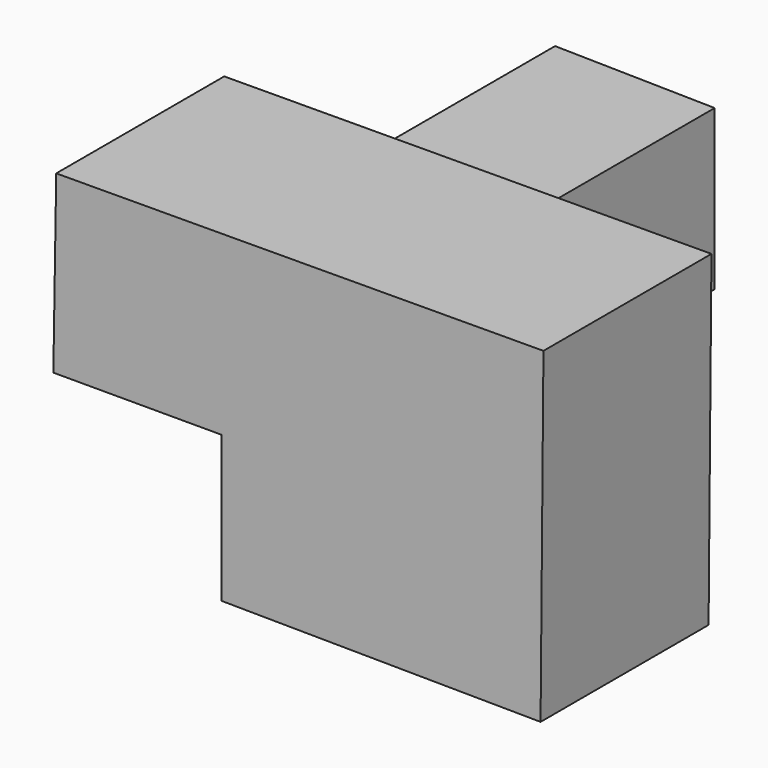
from build123d import *

# Parameters (mm, degrees)
F1_DEPTH = 25
F3_DEPTH = 25


with BuildPart() as f1:
    # F0 (on Front) → F1 (new body)
    with BuildSketch(Plane.XZ):
        Polygon((0.343599, 29.74103), (-57.655812, 29.479581), (-57.998525, 8.482378), (-37.998525, 8.482378), (-37.998525, -8.922668), (0, -9.257457), align=None)
    extrude(amount=F1_DEPTH)

    # F2 (on Front) → F3 (join)
    with BuildSketch(Plane.XZ):
        Polygon((-19.277146, 28.483649), (-38.274593, 28.795084), (-38.274593, 9.483649), (-19.277146, 9.483649), align=None)
    extrude(amount=-F3_DEPTH)


solid = f1.part
